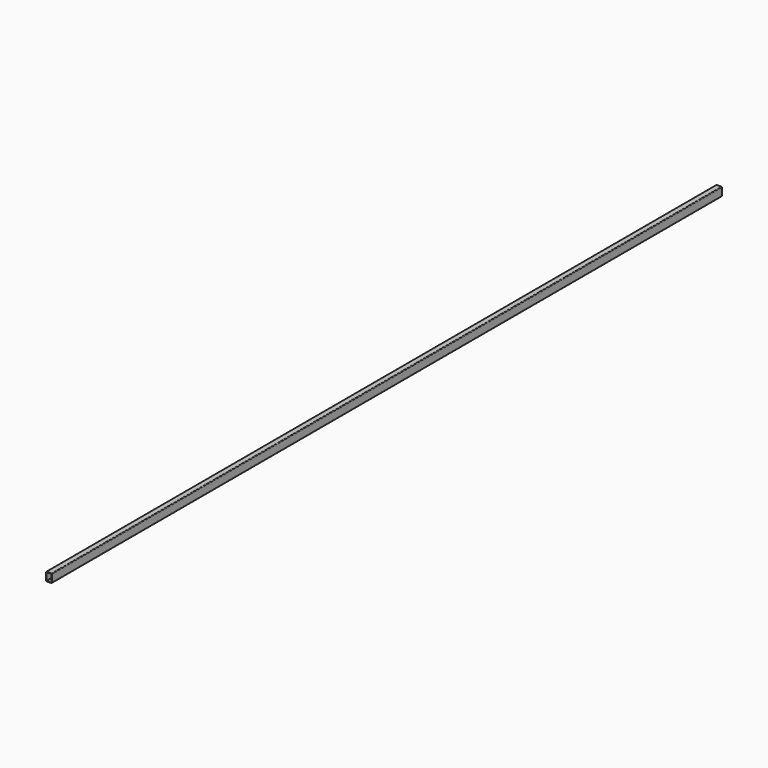
from build123d import *

# Parameters (mm, degrees)
F1_DEPTH = 5899


with BuildPart() as f1:
    # F0 (on Front) → F1 (new body)
    with BuildSketch(Plane.XZ):
        with BuildLine():
            ThreePointArc((20, 26), (18.828427, 28.828427), (16, 30))
            Line((16, 30), (-16, 30))
            ThreePointArc((-16, 30), (-18.828427, 28.828427), (-20, 26))
            Line((-20, 26), (-20, -26))
            ThreePointArc((-20, -26), (-18.828427, -28.828427), (-16, -30))
            Line((-16, -30), (16, -30))
            ThreePointArc((16, -30), (18.828427, -28.828427), (20, -26))
            Line((20, -26), (20, 26))
        make_face()
        with BuildLine():
            Line((-16, 27), (16, 27))
            ThreePointArc((16, 27), (16.707107, 26.707107), (17, 26))
            Line((17, 26), (17, -26))
            ThreePointArc((17, -26), (16.707107, -26.707107), (16, -27))
            Line((16, -27), (-16, -27))
            ThreePointArc((-16, -27), (-16.707107, -26.707107), (-17, -26))
            Line((-17, -26), (-17, 26))
            ThreePointArc((-17, 26), (-16.707107, 26.707107), (-16, 27))
        make_face(mode=Mode.SUBTRACT)
    extrude(amount=F1_DEPTH)


solid = f1.part
